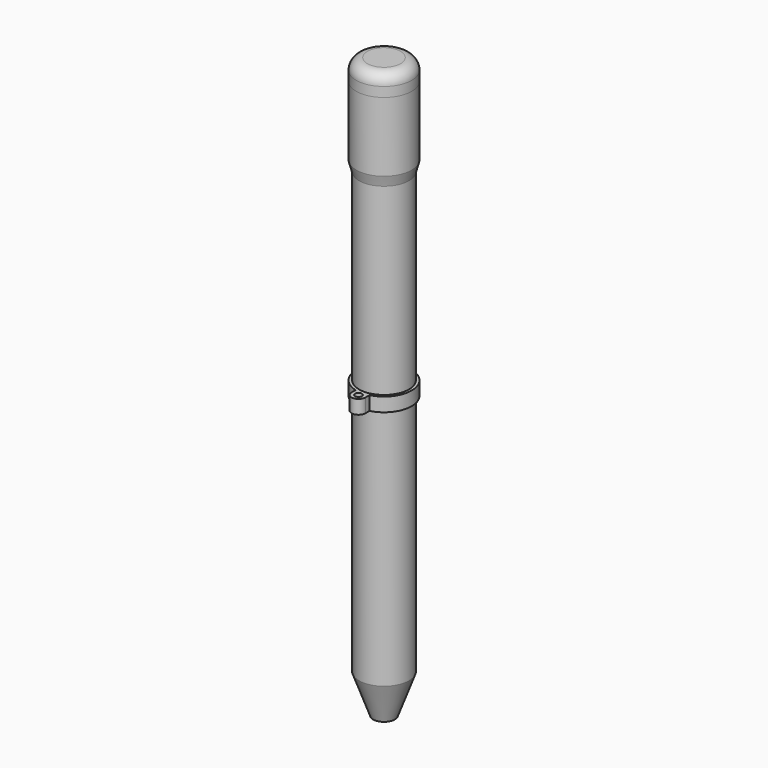
from build123d import *

# Parameters (mm, degrees)
F4_R      = 2.032
F5_R      = 0.254
F8_R      = 5.08
F8_R_2    = 4.572
F9_DEPTH  = 2.54
F10_R     = 0.635
F11_DEPTH = 2.54


with BuildPart() as f1:
    # F0 (on Front) → F1 (revolve)
    with BuildSketch(Plane.XZ):
        Polygon((5.08, 38.1), (5.08, 50.8), (3.81, 50.8), (3.81, 38.267199), (3.302, 36.371317), (3.302, -44.45), (4.572, -44.45), (4.572, 36.204118), align=None)
    revolve(axis=Axis((0, 0, 3.175), (0, 0, -1)))


with BuildPart() as f3:
    # F2 (on Front) → F3 (revolve)
    with BuildSketch(Plane.XZ):
        Polygon((5.08, 54.61), (0, 54.61), (0, 53.34), (2.413, 53.34), (2.413, 46.99), (3.683, 46.99), (3.683, 50.8), (5.08, 50.8), align=None)
    revolve(axis=Axis((0, 0, 26.873097), (0, 0, 1)))

    # F4
    f4_edges = [f3.edges().sort_by_distance(p)[0] for p in [
        (-5.08, 0, 54.61),
    ]]
    fillet(f4_edges, radius=F4_R)

    # F5
    f5_edges = [f3.edges().sort_by_distance(p)[0] for p in [
        (-2.413, 0, 53.34),
    ]]
    fillet(f5_edges, radius=F5_R)


with BuildPart() as f7:
    # F6 (on Front) → F7 (revolve)
    with BuildSketch(Plane.XZ):
        Polygon((3.8735, -44.45), (3.8735, -40.64), (2.6035, -40.64), (2.6035, -44.45), (1.27, -44.45), (1.27, -51.562), (1.983444, -51.562), (4.572, -44.45), align=None)
    revolve(axis=Axis((0, 0, -57.989374), (0, 0, 1)))


with BuildPart() as f9:
    # F8 (on Top) → F9 (new body)
    with BuildSketch(Plane.XY):
        Circle(F8_R)
        Circle(F8_R_2, mode=Mode.SUBTRACT)
    extrude(amount=F9_DEPTH)

    # F10 (on Top) → F11 (join, through all)
    with BuildSketch(Plane.XY):
        with BuildLine():
            Line((-1.27, -4.918689), (-1.27, -5.842))
            ThreePointArc((-1.27, -5.842), (0, -7.112), (1.27, -5.842))
            Line((1.27, -5.842), (1.27, -4.918689))
            ThreePointArc((1.27, -4.918689), (0, -5.08), (-1.27, -4.918689))
        make_face()
        with Locations((0, -5.842)):
            Circle(F10_R, mode=Mode.SUBTRACT)
    extrude(amount=F11_DEPTH)


solid = Compound([f1.part, f3.part, f7.part, f9.part])
